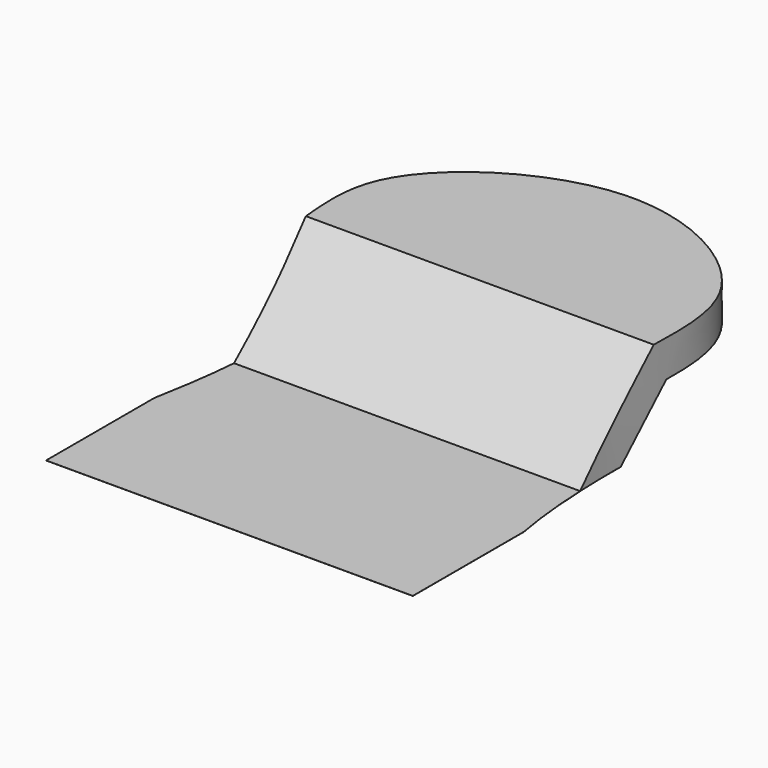
from build123d import *

# Parameters (mm, degrees)
F1_DEPTH      = 2000
F3_DEPTH      = 1000.001
F3_DEPTH_BACK = 25


with BuildPart() as f1:
    # F0 (on Right) → F1 (new body, symmetric)
    with BuildSketch(Plane.YZ):
        Polygon((0, 0), (-2400, 0), (-2400, -1), (564.6854249492, -1), (1165.6854249492, 600), (3009.1400146484, 600), (3000, 1000), (1000, 1000), align=None)
    extrude(amount=F1_DEPTH, both=True)

    # F2 (on Top) → F3 (cut, two sides)
    with BuildSketch(Plane.XY) as f3_sk:
        with BuildLine():
            Line((-2150.7658958435, 3114.8386001587), (-2150.7658958435, -1639.4861936569))
            add(Edge.make_bspline(
                [(-2150.7658958435, -1639.4861936569), (-1968.4842187519, -847.8595203721), (-1718.2601518483, 549.1286813285), (-2152.6533858763, 2078.2070033877), (-7.1759905069, 3444.006307923), (2086.856226983, 2253.3490514909), (1799.6855873754, 624.0863609646), (2033.96651154, -1738.9599241934), (2493.5835084202, -1490.4006136839), (2633.0888271332, -1413.0897521973)],
                knots=[0, 0, 0, 0, 0.169963249, 0.3024719992, 0.4651832044, 0.621906136, 0.7687639473, 0.9284240297, 1, 1, 1, 1], degree=3))
            Line((2633.0888271332, -1413.0897521973), (2485.4388237, 3114.8386001587))
            Line((2485.4388237, 3114.8386001587), (-2150.7658958435, 3114.8386001587))
        make_face()
    extrude(amount=F3_DEPTH, mode=Mode.SUBTRACT)
    extrude(f3_sk.sketch, amount=-F3_DEPTH_BACK, mode=Mode.SUBTRACT)


solid = f1.part
